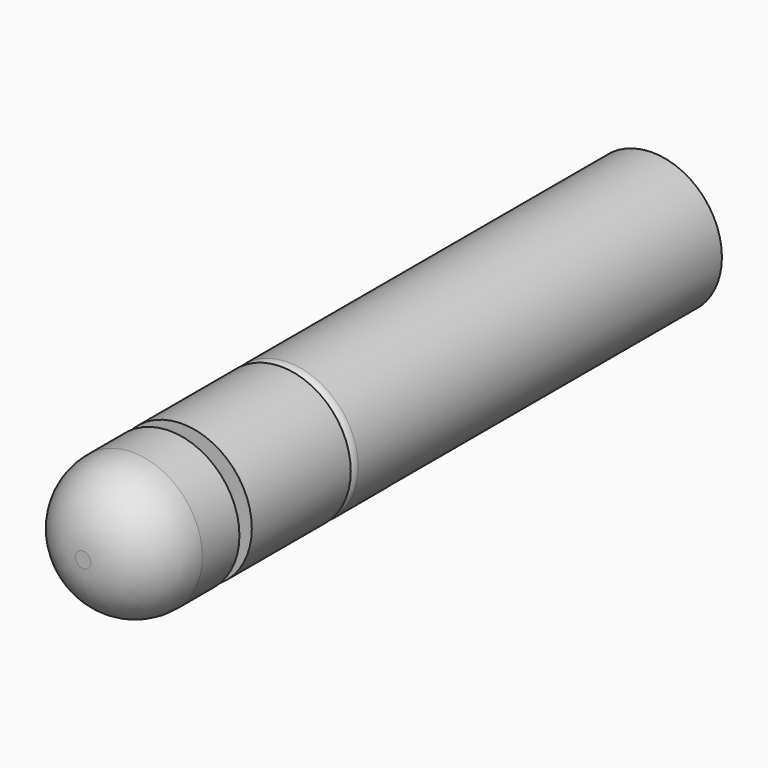
from build123d import *

# Parameters (mm, degrees)
F0_R           = 5.715
F1_DEPTH       = 38.1
F2_R           = 5.715
F3_DEPTH       = 20.32
F4_R           = 0.762
F5_R           = 4.1972298984
F6_DEPTH       = 31.75
F7_W           = 8.0674731684
F7_H           = 31.75
F8_DEPTH       = 25.4
F9_R           = 3.1818163762
F10_DEPTH      = 7.62
F10_DEPTH_BACK = 10.16
F11_R          = 2.54
F12_R          = 5.08
F14_R          = 10.1897381857
F14_R_2        = 4.3866323881
F15_DEPTH      = 1.27


with BuildPart() as f1:
    # F0 (on Front) → F1 (new body)
    with BuildSketch(Plane.XZ):
        Circle(F0_R)
    extrude(amount=F1_DEPTH)

    # F4
    f4_edges = [f1.edges().sort_by_distance(p)[0] for p in [
        (-5.715, -38.1, 0),
    ]]
    fillet(f4_edges, radius=F4_R)

    # F5 (on face) → F6 (cut)
    with BuildSketch(Plane(origin=(0, 0, 0), x_dir=(-1, 0, 0), z_dir=(0, 1, 0))):
        Circle(F5_R)
    extrude(amount=-F6_DEPTH, mode=Mode.SUBTRACT)

    # F7 (on Top) → F8 (cut)
    with BuildSketch(Plane.XY):
        with Locations((-0.0390663249, -15.875)):
            Rectangle(F7_W, F7_H)
    extrude(amount=-F8_DEPTH, mode=Mode.SUBTRACT)

    # F9 (on face) → F10 (join, two sides)
    with BuildSketch(Plane(origin=(0, -31.75, 0), x_dir=(-1, 0, 0), z_dir=(0, 1, 0))) as f10_sk:
        Circle(F9_R)
    extrude(amount=F10_DEPTH)
    extrude(f10_sk.sketch, amount=-F10_DEPTH_BACK)

    # F11
    f11_edges = [f1.edges().sort_by_distance(p)[0] for p in [
        (3.181816, -24.13, 0),
    ]]
    fillet(f11_edges, radius=F11_R)


with BuildPart() as f3:
    # F2 (on face) → F3 (new body)
    with BuildSketch(Plane.XZ.offset(38.1)):
        Circle(F2_R)
    extrude(amount=F3_DEPTH)

    # F12
    f12_edges = [f3.edges().sort_by_distance(p)[0] for p in [
        (-5.715, -58.42, 0),
    ]]
    fillet(f12_edges, radius=F12_R)

    # F14 (on offset) → F15 (cut)
    with BuildSketch(Plane.XZ.offset(48.26)):
        Circle(F14_R)
        Circle(F14_R_2, mode=Mode.SUBTRACT)
    extrude(amount=F15_DEPTH, mode=Mode.SUBTRACT)


solid = Compound([f1.part, f3.part])
